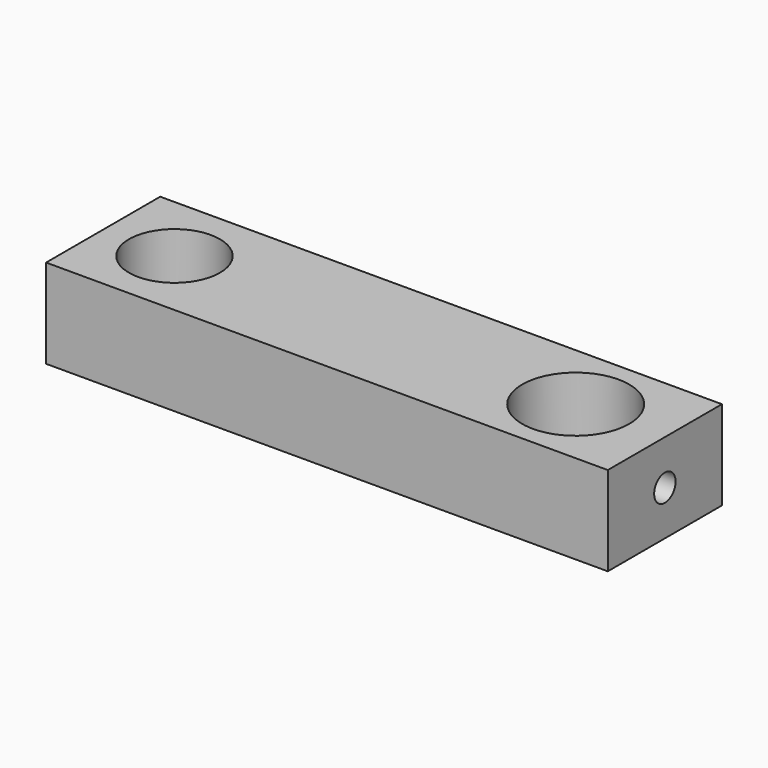
from build123d import *

# Parameters (mm, degrees)
F0_W     = 63
F0_H     = 16
F1_DEPTH = 10
F2_R     = 3
F2_R_2   = 6
F3_DEPTH = 10.001
F2_R_3   = 5.1
F4_DEPTH = 6.1
F5_R     = 1.5
F6_DEPTH = 4.1915250807
F7_R     = 5
F8_DEPTH = 5


with BuildPart() as f1:
    # F0 (on Top) → F1 (new body)
    with BuildSketch(Plane.XY):
        with Locations((31.5, 8)):
            Rectangle(F0_W, F0_H)
    extrude(amount=F1_DEPTH)

    # F2 (on face) → F3 (cut, through all)
    with BuildSketch(Plane.XY.offset(10)):
        with Locations((8, 8)):
            Circle(F2_R)
        with Locations((53, 8)):
            Circle(F2_R_2)
    extrude(amount=-F3_DEPTH, mode=Mode.SUBTRACT)

    # F2 (on face) → F4 (cut)
    with BuildSketch(Plane.XY.offset(10)):
        with Locations((8, 8)):
            Circle(F2_R_3)
        with Locations((8, 8)):
            Circle(F2_R, mode=Mode.SUBTRACT)
    extrude(amount=-F4_DEPTH, mode=Mode.SUBTRACT)

    # F5 (on face) → F6 (cut, through all)
    with BuildSketch(Plane.YZ.offset(63)):
        with Locations((8, 5)):
            Circle(F5_R)
    extrude(amount=-F6_DEPTH, mode=Mode.SUBTRACT)

    # F7 (on face) → F8 (cut)
    with BuildSketch(Plane(origin=(0, 0, 0), x_dir=(1, 0, 0), z_dir=(0, 0, -1))):
        with Locations((34, -8)):
            Circle(F7_R)
    extrude(amount=-F8_DEPTH, mode=Mode.SUBTRACT)


solid = f1.part
